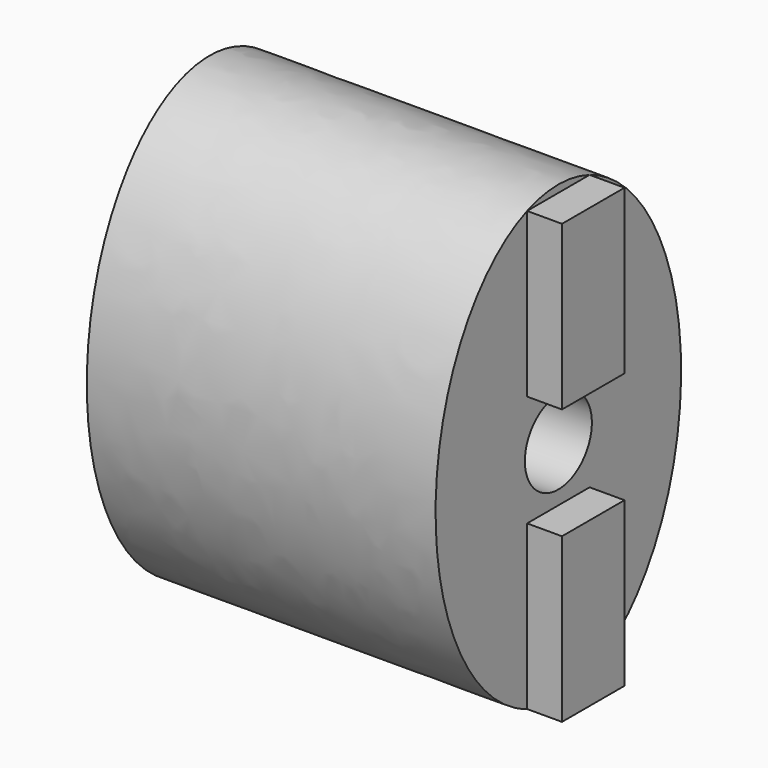
from build123d import *

# Parameters (mm, degrees)
F1_DEPTH       = 25
F2_D           = 6
F2_CBORE_D     = 10
F2_CBORE_DEPTH = 17.4
F4_W           = 10.5
F4_H           = 3.5
F5_DEPTH       = 10
F8_D           = 4.5
F8_DEPTH       = 12
F8_TIP         = 1.3519363928
F9_W           = 5.6
F9_H           = 11.7147381737
F10_DEPTH      = 2.5


with BuildPart() as f1:
    # F0 (on Right) → F1 (new body)
    with BuildSketch(Plane.YZ):
        with BuildLine():
            add(Edge.make_bspline(
                [(0, -16.25), (19.0525588833, -16.25), (9.5262794416, 8.125), (0, 32.5), (-9.5262794416, 8.125), (-19.0525588833, -16.25), (0, -16.25)],
                knots=[0, 0, 0, 2.0943951024, 2.0943951024, 4.1887902048, 4.1887902048, 6.2831853072, 6.2831853072, 6.2831853072], degree=2, weights=[1, 0.5, 1, 0.5, 1, 0.5, 1]))
        make_face()
    extrude(amount=F1_DEPTH)

    # F2 (through all)
    with Locations(Plane(origin=(0, 0, 0), x_dir=(0, 1, 0), z_dir=(-1, 0, 0))):
        with Locations((0, 0)):
            CounterBoreHole(F2_D / 2, F2_CBORE_D / 2, F2_CBORE_DEPTH)

    # F4 (on offset) → F5 (cut)
    with BuildSketch(Plane.YZ):
        with Locations((0, -10.5)):
            Rectangle(F4_W, F4_H)
    extrude(amount=F5_DEPTH, mode=Mode.SUBTRACT)

    # F8 (one way)
    with BuildSketch(Plane.XY.offset(-12.25)):
        with Locations((5, 0)):
            Circle(F8_D / 2)
    extrude(amount=-F8_DEPTH, mode=Mode.SUBTRACT)
    with Locations(Plane.XY.offset(-12.25)):
        with Locations((5, 0)):
            with Locations((0, 0, -(F8_DEPTH + F8_TIP / 2))):  # 118° drill point
                Cone(0, F8_D / 2, F8_TIP, mode=Mode.SUBTRACT)

    # F9 (on face) → F10 (join)
    with BuildSketch(Plane.YZ.offset(25)):
        with Locations((0, 9.8573690868)):
            Rectangle(F9_W, F9_H)
        with Locations((0, -9.8573690868)):
            Rectangle(F9_W, F9_H)
    extrude(amount=F10_DEPTH)


solid = f1.part
